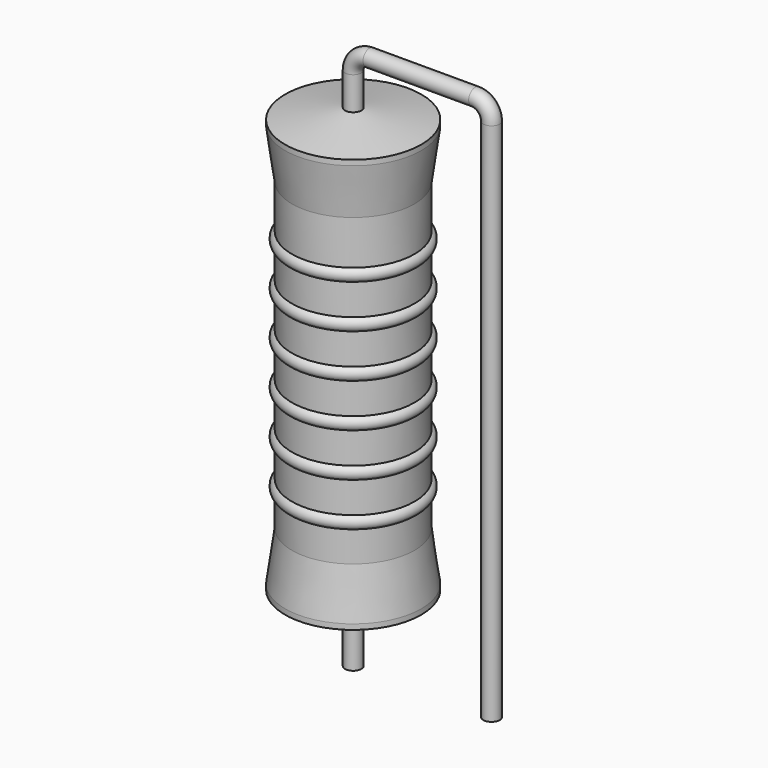
from build123d import *

# Parameters (mm, degrees)
SKETCH_R = 0.45


with BuildPart() as revolution:
    # Sketch002 → Revolution (revolve)
    with BuildSketch(Plane.XZ):
        Polygon((0, 0.1), (0, 24.1), (0.3375, 24.1), (3.75, 23.5), (3.75, 23.2075), (3.375, 20.5), (3.375, 3.7), (3.75, 0.9925), (3.75, 0.7), (0.3375, 0.1), align=None)
    revolve(axis=Axis((0, 0, 0), (0, 0, 1)))


with BuildPart() as sweep_body:
    # Sweep: sweep along a path in Sketch001
    with BuildLine(Plane.XZ) as sweep_path:
        Line((0, -3), (0, 25.9))
        ThreePointArc((0, 25.9), (0.263601, 26.536393), (0.899991, 26.8))
        Line((0.899991, 26.8), (6.72, 26.8))
        ThreePointArc((6.72, 26.8), (7.356396, 26.536396), (7.62, 25.9))
        Line((7.62, 25.9), (7.62, -3))
    # Sketch → Sweep (sweep)
    with BuildSketch(Plane.XY.offset(-2)):
        Circle(SKETCH_R)
    sweep(path=sweep_path.line)


with BuildPart() as obj1:
    # Sketch003 → Revolution001 (revolve)
    with BuildSketch(Plane.XZ):
        with BuildLine():
            Line((3, 19.75), (3, 3.7))
            Line((3, 3.7), (3.225, 3.7))
            Line((3.225, 3.7), (3.225, 5.35))
            ThreePointArc((3.225, 5.35), (3.6, 5.725), (3.225, 6.1))
            Line((3.225, 6.1), (3.225, 7.75))
            ThreePointArc((3.225, 7.75), (3.6, 8.125), (3.225, 8.5))
            Line((3.225, 8.5), (3.225, 10.15))
            ThreePointArc((3.225, 10.15), (3.6, 10.525), (3.225, 10.9))
            Line((3.225, 10.9), (3.225, 12.55))
            ThreePointArc((3.225, 12.55), (3.6, 12.925), (3.225, 13.3))
            Line((3.225, 13.3), (3.225, 14.95))
            ThreePointArc((3.225, 14.95), (3.6, 15.325), (3.225, 15.7))
            Line((3.225, 15.7), (3.225, 17.35))
            ThreePointArc((3.225, 17.35), (3.6, 17.725), (3.225, 18.1))
            Line((3.225, 19.75), (3.225, 18.1))
            Line((3, 19.75), (3.225, 19.75))
        make_face()
    revolve(axis=Axis((0, 0, 0), (0, 0, 1)))

    # obj1: union Revolution, Sweep body
    add(revolution.part)
    add(sweep_body.part)


solid = obj1.part
